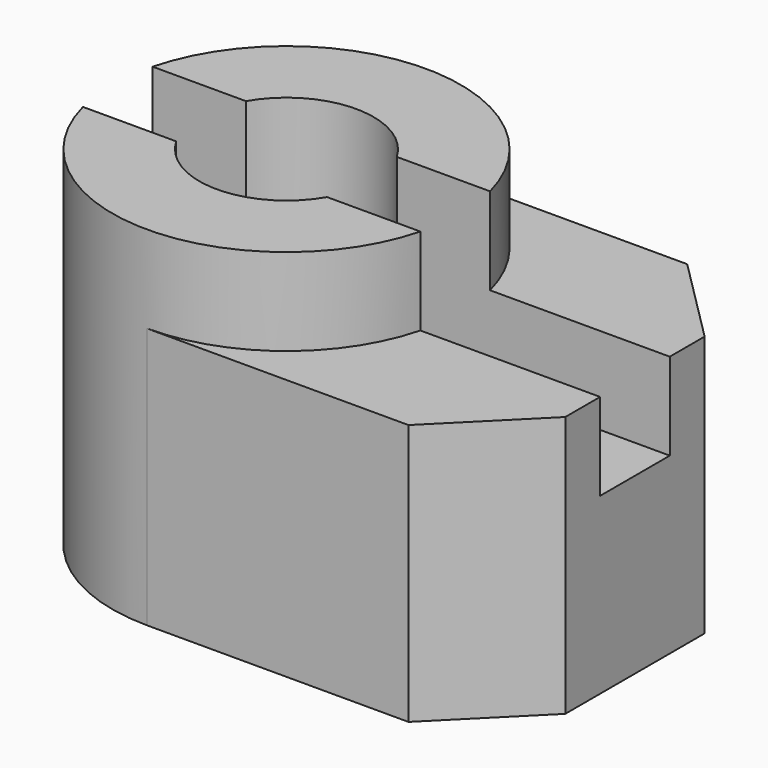
from build123d import *

# Parameters (mm, degrees)
F0_R     = 5
F1_DEPTH = 15
F2_DEPTH = 20
F4_DEPTH = 30.001


with BuildPart() as f1:
    # F0 (on Top) → F1 (new body)
    with BuildSketch(Plane.XY):
        with BuildLine():
            ThreePointArc((0, -10), (10, 0), (0, 10))
            ThreePointArc((0, 10), (-10, 0), (0, -10))
        make_face()
        Circle(F0_R, mode=Mode.SUBTRACT)
        with BuildLine():
            Line((15, 10), (0, 10))
            ThreePointArc((0, 10), (10, 0), (0, -10))
            Line((0, -10), (15, -10))
            Line((15, -10), (20, -5))
            Line((20, -5), (20, 5))
            Line((20, 5), (15, 10))
        make_face()
    extrude(amount=F1_DEPTH)

    # F0 (on Top) → F2 (join)
    with BuildSketch(Plane.XY):
        with BuildLine():
            ThreePointArc((0, -10), (10, 0), (0, 10))
            ThreePointArc((0, 10), (-10, 0), (0, -10))
        make_face()
        Circle(F0_R, mode=Mode.SUBTRACT)
    extrude(amount=F2_DEPTH)

    # F3 (on face) → F4 (cut, through all)
    with BuildSketch(Plane.YZ.offset(20)):
        Polygon((2.5, 10), (2.5, 15), (2.5, 20), (-2.5, 20), (-2.5, 15), (-2.5, 10), align=None)
    extrude(amount=-F4_DEPTH, mode=Mode.SUBTRACT)


solid = f1.part
